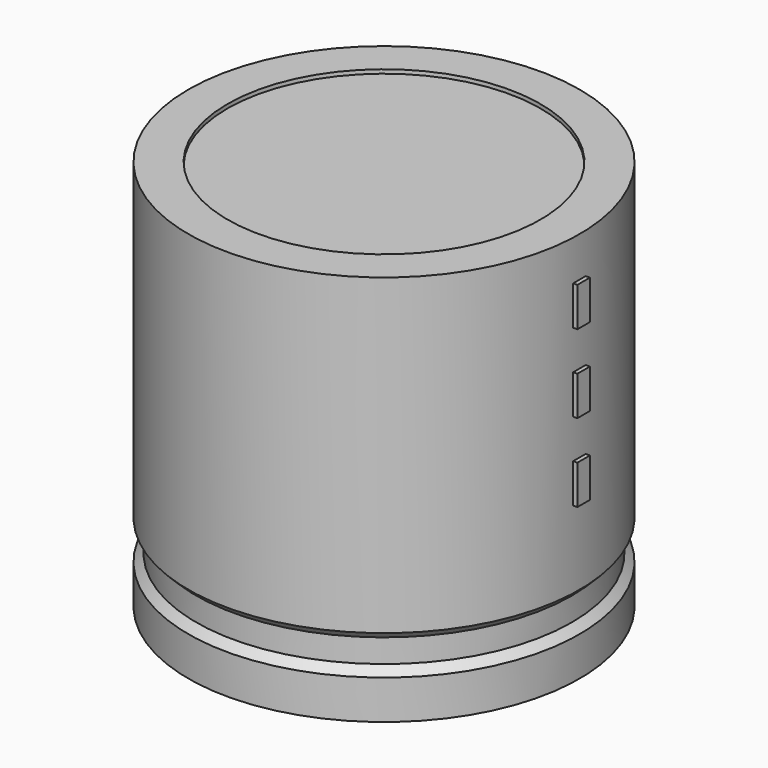
from build123d import *

# Parameters (mm, degrees)
SKETCH002_W  = 16.1
SKETCH002_H  = 34.3
SKETCH003_R  = 0.85
PAD_DEPTH    = 6.5
SKETCH004_W  = 1.4
SKETCH004_H  = 3.5
PAD001_DEPTH = 17.85


with BuildPart() as revolution:
    # Sketch → Revolution (revolve)
    with BuildSketch(Plane.XZ):
        Polygon((-12.5, 0.1), (-12.5, 3.6), (-11.8, 4.3), (-11.8, 6.4), (-12.5, 7.1), (-12.5, 35.1), (-9, 35.1), (-9, 0.1), align=None)
    revolve(axis=Axis((5, 0, 7.548619), (0, 0, -1)))


with BuildPart() as revolution001:
    # Sketch002 → Revolution001 (revolve)
    with BuildSketch(Plane.XZ):
        with Locations((-3.05, 17.6)):
            Rectangle(SKETCH002_W, SKETCH002_H)
    revolve(axis=Axis((5, 0, 4.680116), (0, 0, -1)))


with BuildPart() as pad:
    # Sketch003 → Pad (new body)
    with BuildSketch(Plane.XY.offset(3.5)):
        Circle(SKETCH003_R)
        with Locations((10, 0)):
            Circle(SKETCH003_R)
    extrude(amount=-PAD_DEPTH)


with BuildPart() as pad001:
    # Sketch004 → Pad001 (new body)
    with BuildSketch(Plane.YZ.offset(5)):
        with Locations((0, 15.75)):
            Rectangle(SKETCH004_W, SKETCH004_H)
        with Locations((0, 22.75)):
            Rectangle(SKETCH004_W, SKETCH004_H)
        with Locations((0, 29.75)):
            Rectangle(SKETCH004_W, SKETCH004_H)
    extrude(amount=PAD001_DEPTH)


solid = Compound([revolution.part, revolution001.part, pad.part, pad001.part])
